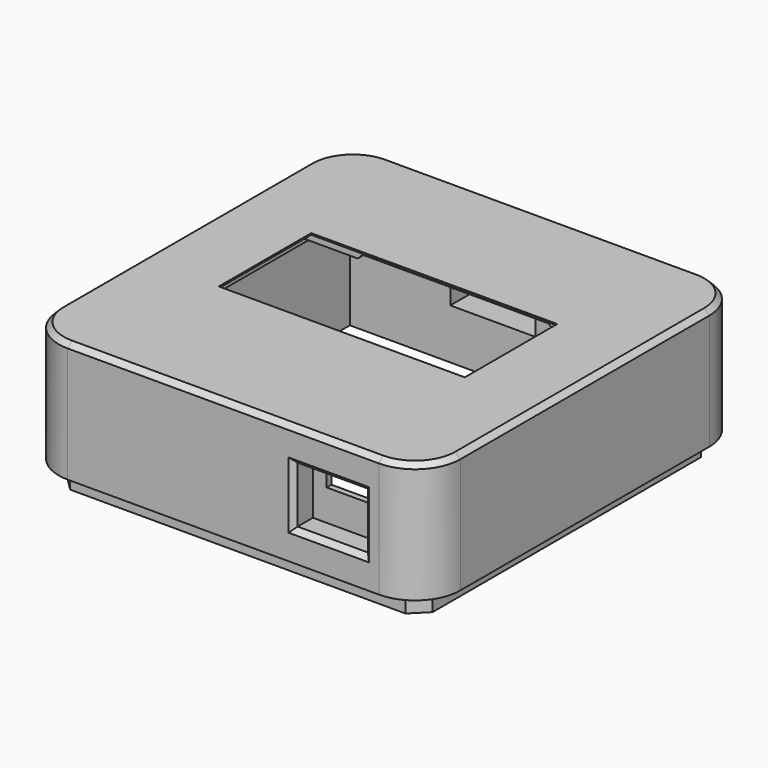
from build123d import *

# Parameters (mm, degrees)
SKETCH_W        = 63
SKETCH_H        = 47
SKETCH_W_2      = 49
SKETCH_H_2      = 23
PAD_DEPTH       = 0.3
SKETCH001_W     = 65
SKETCH001_H     = 49
SKETCH001_W_2   = 63
SKETCH001_H_2   = 47
PAD001_DEPTH    = 6.8
SKETCH002_W     = 4.15
SKETCH002_H     = 4.15
SKETCH002_R     = 1.1
PAD002_DEPTH    = 4.7
SKETCH003_W     = 8.85
SKETCH003_H     = 4.15
SKETCH003_W_2   = 15.85
PAD003_DEPTH    = 4.7
SKETCH004_W     = 37
SKETCH004_H     = 4.15
PAD004_DEPTH    = 1.5
CHAMFER_SIZE    = 1
PAD005_DEPTH    = 0.5
CHAMFER001_SIZE = 1.5
SKETCH006_W     = 80
SKETCH006_H     = 80
SKETCH006_W_2   = 65
SKETCH006_H_2   = 49
PAD006_DEPTH    = 24
SKETCH007_W     = 68
SKETCH007_H     = 68
SKETCH007_W_2   = 65
SKETCH007_H_2   = 49
POCKET_DEPTH    = 17.2
SKETCH008_W     = 14
SKETCH008_H     = 11.2
POCKET001_DEPTH = 6
SKETCH009_W     = 17
SKETCH009_H     = 8
POCKET002_DEPTH = 6
SKETCH010_W     = 26
SKETCH010_H     = 8
PAD007_DEPTH    = 2
CHAMFER002_SIZE = 1.999
SKETCH011_W     = 14
SKETCH011_H     = 1.2
PAD008_DEPTH    = 11.2
SKETCH012_W     = 8.5
SKETCH012_H     = 3
POCKET003_DEPTH = 1.2
SKETCH013_W     = 72.8
SKETCH013_H     = 72.8
SKETCH013_W_2   = 68
SKETCH013_H_2   = 68
PAD009_DEPTH    = 4
FILLET_R        = 9
CHAMFER003_SIZE = 3
CHAMFER004_SIZE = 1
CHAMFER005_SIZE = 1


with BuildPart() as part:
    # Sketch → Pad (new body)
    with BuildSketch(Plane.XY):
        with Locations((0, -1.5)):
            Rectangle(SKETCH_W, SKETCH_H)
        with Locations((0, 1)):
            Rectangle(SKETCH_W_2, SKETCH_H_2, mode=Mode.SUBTRACT)
    extrude(amount=PAD_DEPTH)

    # Sketch001 (on Face10 of Pad) → Pad001 (join)
    with BuildSketch(Plane.XY.offset(0.3)):
        with Locations((0, -1.5)):
            Rectangle(SKETCH001_W, SKETCH001_H)
        with Locations((0, -1.5)):
            Rectangle(SKETCH001_W_2, SKETCH001_H_2, mode=Mode.SUBTRACT)
    extrude(amount=-PAD001_DEPTH)

    # Sketch002 (on Face4 of Pad001) → Pad002 (join)
    with BuildSketch(Plane(origin=(0, 0, 0), x_dir=(1, 0, 0), z_dir=(0, 0, -1))):
        with Locations((-29.425, 22.925)):
            Rectangle(SKETCH002_W, SKETCH002_H)
        with Locations((-29.17, 22.67)):
            Circle(SKETCH002_R, mode=Mode.SUBTRACT)
        with Locations((-29.425, -19.925)):
            Rectangle(SKETCH002_W, SKETCH002_H)
        with Locations((-29.17, -19.67)):
            Circle(SKETCH002_R, mode=Mode.SUBTRACT)
        with Locations((29.425, -19.925)):
            Rectangle(SKETCH002_W, SKETCH002_H)
        with Locations((29.17, -19.67)):
            Circle(SKETCH002_R, mode=Mode.SUBTRACT)
        with Locations((29.425, 22.925)):
            Rectangle(SKETCH002_W, SKETCH002_H)
        with Locations((29.17, 22.67)):
            Circle(SKETCH002_R, mode=Mode.SUBTRACT)
    extrude(amount=PAD002_DEPTH)

    # Sketch003 (on Face4 of Pad002) → Pad003 (join)
    with BuildSketch(Plane(origin=(0, 0, 0), x_dir=(1, 0, 0), z_dir=(0, 0, -1))):
        with Locations((-22.925, -19.925)):
            Rectangle(SKETCH003_W, SKETCH003_H)
        with Locations((22.925, -19.925)):
            Rectangle(SKETCH003_W, SKETCH003_H)
        with Locations((-19.425, 22.925)):
            Rectangle(SKETCH003_W_2, SKETCH003_H)
        with Locations((19.425, 22.925)):
            Rectangle(SKETCH003_W_2, SKETCH003_H)
    extrude(amount=PAD003_DEPTH)

    # Sketch004 (on Face4 of Pad003) → Pad004 (join)
    with BuildSketch(Plane(origin=(0, 0, 0), x_dir=(1, 0, 0), z_dir=(0, 0, -1))):
        with Locations((0, -19.925)):
            Rectangle(SKETCH004_W, SKETCH004_H)
    extrude(amount=PAD004_DEPTH)

    # Chamfer
    chamfer_edges = [part.edges().sort_by_distance(p)[0] for p in [
        (-18.5, 19.925, -1.5),
        (18.5, 19.925, -1.5),
        (-18.5, 19.925, -4.7),
        (18.5, 19.925, -4.7),
    ]]
    chamfer(chamfer_edges, length=CHAMFER_SIZE)

    # Sketch005 (on Face6 of Chamfer) → Pad005 (join)
    with BuildSketch(Plane(origin=(0, 0, 0), x_dir=(1, 0, 0), z_dir=(0, 0, -1))):
        Polygon((11.5, 20.85), (11.5, 25), (-11.5, 25), (-11.5, 20.85), (-31.5, 20.85), (-31.5, 15.85), (31.5, 15.85), (31.5, 20.85), align=None)
    extrude(amount=PAD005_DEPTH)

    # Chamfer001
    chamfer001_edges = [part.edges().sort_by_distance(p)[0] for p in [
        (-11.5, -22.925, -4.7),
        (11.5, -22.925, -4.7),
    ]]
    chamfer(chamfer001_edges, length=CHAMFER001_SIZE)

    # Sketch006 (on Face52 of Chamfer001) → Pad006 (join)
    with BuildSketch(Plane.XY.offset(0.3)):
        Rectangle(SKETCH006_W, SKETCH006_H)
        with Locations((0, -1.5)):
            Rectangle(SKETCH006_W_2, SKETCH006_H_2, mode=Mode.SUBTRACT)
    extrude(amount=-PAD006_DEPTH)

    # Sketch007 (on Face49 of Pad006) → Pocket (cut)
    with BuildSketch(Plane(origin=(0, 0, -23.7), x_dir=(1, 0, 0), z_dir=(0, 0, -1))):
        Rectangle(SKETCH007_W, SKETCH007_H)
        with Locations((0, 1.5)):
            Rectangle(SKETCH007_W_2, SKETCH007_H_2, mode=Mode.SUBTRACT)
    extrude(amount=-POCKET_DEPTH, mode=Mode.SUBTRACT)

    # Sketch008 (on Face49 of Pocket) → Pocket001 (cut)
    with BuildSketch(Plane(origin=(0, -34, 0), x_dir=(-1, 0, 0), z_dir=(0, 1, 0))):
        with Locations((-21, -12.1)):
            Rectangle(SKETCH008_W, SKETCH008_H)
    extrude(amount=-POCKET001_DEPTH, mode=Mode.SUBTRACT)

    # Sketch009 (on Face47 of Pocket001) → Pocket002 (cut)
    with BuildSketch(Plane.XZ.offset(-34)):
        with Locations((-5.5, -13.7)):
            Rectangle(SKETCH009_W, SKETCH009_H)
    extrude(amount=-POCKET002_DEPTH, mode=Mode.SUBTRACT)

    # Sketch010 (on Face24 of Pocket002) → Pad007 (join)
    with BuildSketch(Plane(origin=(0, 0, -6.5), x_dir=(1, 0, 0), z_dir=(0, 0, -1))):
        with Locations((21, 30)):
            Rectangle(SKETCH010_W, SKETCH010_H)
    extrude(amount=PAD007_DEPTH)

    # Chamfer002
    chamfer002_edges = [part.edges().sort_by_distance(p)[0] for p in [
        (21, -26, -8.5),
        (8, -30, -8.5),
    ]]
    chamfer(chamfer002_edges, length=CHAMFER002_SIZE)

    # Sketch011 (on Face55 of Chamfer002) → Pad008 (join)
    with BuildSketch(Plane(origin=(0, 0, -6.5), x_dir=(1, 0, 0), z_dir=(0, 0, -1))):
        with Locations((21, 34.6)):
            Rectangle(SKETCH011_W, SKETCH011_H)
    extrude(amount=PAD008_DEPTH)

    # Sketch012 (on Face17 of Pad008) → Pocket003 (cut)
    with BuildSketch(Plane(origin=(0, -34, 0), x_dir=(-1, 0, 0), z_dir=(0, 1, 0))):
        with Locations((-21, -10)):
            Rectangle(SKETCH012_W, SKETCH012_H)
    extrude(amount=-POCKET003_DEPTH, mode=Mode.SUBTRACT)

    # Sketch013 (on Face15 of Pocket003) → Pad009 (join)
    with BuildSketch(Plane(origin=(0, 0, -23.7), x_dir=(1, 0, 0), z_dir=(0, 0, -1))):
        Rectangle(SKETCH013_W, SKETCH013_H)
        Rectangle(SKETCH013_W_2, SKETCH013_H_2, mode=Mode.SUBTRACT)
    extrude(amount=PAD009_DEPTH)

    # Fillet
    fillet_edges = [part.edges().sort_by_distance(p)[0] for p in [
        (-40, -40, -11.7),
        (40, -40, -11.7),
        (40, 40, -11.7),
        (-40, 40, -11.7),
    ]]
    fillet(fillet_edges, radius=FILLET_R)

    # Chamfer003
    chamfer003_edges = [part.edges().sort_by_distance(p)[0] for p in [
        (36.4, 36.4, -25.7),
        (-36.4, 36.4, -25.7),
        (36.4, -36.4, -25.7),
        (-36.4, -36.4, -25.7),
    ]]
    chamfer(chamfer003_edges, length=CHAMFER003_SIZE)

    # Chamfer004
    chamfer004_edges = [part.edges().sort_by_distance(p)[0] for p in [
        (28, -40, -12.1),
        (21, -40, -17.7),
        (14, -40, -12.1),
        (21, -40, -6.5),
    ]]
    chamfer(chamfer004_edges, length=CHAMFER004_SIZE)

    # Chamfer005
    chamfer005_edges = [part.edges().sort_by_distance(p)[0] for p in [
        (-37.363961, -37.363961, 0.3),
        (-40, 0, 0.3),
        (-37.363961, 37.363961, 0.3),
        (0, 40, 0.3),
        (0, -40, 0.3),
        (37.363961, -37.363961, 0.3),
        (40, 0, 0.3),
        (37.363961, 37.363961, 0.3),
    ]]
    chamfer(chamfer005_edges, length=CHAMFER005_SIZE)


solid = part.part
